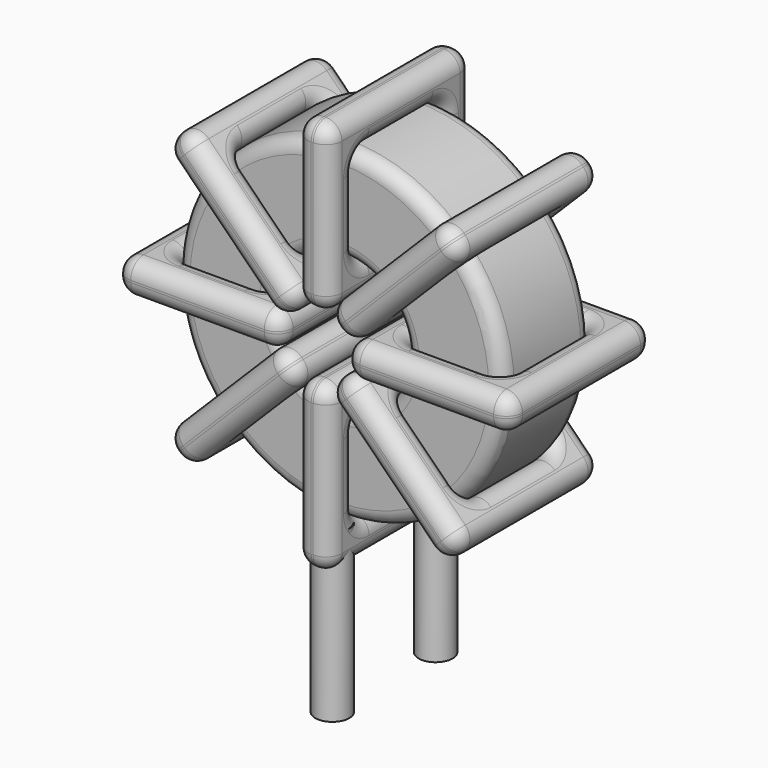
from build123d import *

# Parameters (mm, degrees)
SKETCH001_R       = 0.6
PAD001_DEPTH      = 1.2
PAD001_DEPTH_BACK = 4.7
SKETCH_R          = 5.785
SKETCH_R_2        = 2.328333
PAD_DEPTH         = 1.975
FILLET_R          = 0.5
SKETCH003_W       = 5.856667
SKETCH003_H       = 6.35
SKETCH003_W_2     = 3.456667
SKETCH003_H_2     = 3.95
PAD002_DEPTH      = 0.6
FILLET001_R       = 0.564
SKETCH004_W       = 5.856667
SKETCH004_H       = 6.35
SKETCH004_W_2     = 3.456667
SKETCH004_H_2     = 3.95
PAD003_DEPTH      = 0.6
FILLET002_R       = 0.564
SKETCH005_W       = 5.856667
SKETCH005_H       = 6.35
SKETCH005_W_2     = 3.456667
SKETCH005_H_2     = 3.95
PAD004_DEPTH      = 0.6
FILLET003_R       = 0.564
SKETCH006_W       = 5.856667
SKETCH006_H       = 6.35
SKETCH006_W_2     = 3.456667
SKETCH006_H_2     = 3.95
PAD005_DEPTH      = 0.6
FILLET004_R       = 0.564


with BuildPart() as pad001:
    # Sketch001 → Pad001 (new body, two sides)
    with BuildSketch(Plane.XY.offset(1.7)) as pad001_sk:
        Circle(SKETCH001_R)
        with Locations((0, -4.57)):
            Circle(SKETCH001_R)
    extrude(amount=PAD001_DEPTH)
    extrude(pad001_sk.sketch, amount=-PAD001_DEPTH_BACK)


with BuildPart() as fillet_body:
    # Sketch → Pad (new body, symmetric)
    with BuildSketch(Plane.XZ.offset(2.285)):
        with Locations((0, 8.685)):
            Circle(SKETCH_R)
        with Locations((0, 8.685)):
            Circle(SKETCH_R_2, mode=Mode.SUBTRACT)
    extrude(amount=PAD_DEPTH, both=True)

    # Fillet
    fillet_edges = [fillet_body.edges().sort_by_distance(p)[0] for p in [
        (-2.328333, -4.26, 8.685),
        (-5.785, -4.26, 8.685),
        (-5.785, -0.31, 8.685),
    ]]
    fillet(fillet_edges, radius=FILLET_R)


with BuildPart() as fillet001:
    # Sketch003 → Pad002 (new body, symmetric)
    with BuildSketch(Plane(origin=(0, 0.89, 8.685), x_dir=(1, 0, 0), z_dir=(0, 0, -1))):
        with Locations((-4.056666, 3.175)):
            Rectangle(SKETCH003_W, SKETCH003_H)
        with Locations((-4.056667, 3.175)):
            Rectangle(SKETCH003_W_2, SKETCH003_H_2, mode=Mode.SUBTRACT)
        with Locations((4.056666, 3.175)):
            Rectangle(SKETCH003_W, SKETCH003_H)
        with Locations((4.056667, 3.175)):
            Rectangle(SKETCH003_W_2, SKETCH003_H_2, mode=Mode.SUBTRACT)
    extrude(amount=PAD002_DEPTH, both=True)

    # Fillet001
    fillet001_edges = [fillet001.edges().sort_by_distance(p)[0] for p in [
        (-2.328333, -4.26, 8.685),
        (-2.328333, -0.31, 8.685),
        (-2.328333, -2.285, 9.285),
        (-2.328333, -2.285, 8.085),
        (-6.985, -5.46, 8.685),
        (-1.128333, -5.46, 8.685),
        (-4.056667, -5.46, 9.285),
        (-4.056667, -5.46, 8.085),
        (-1.128333, 0.89, 8.685),
        (-1.128333, -2.285, 9.285),
        (-1.128333, -2.285, 8.085),
        (2.328333, -4.26, 8.685),
        (5.785, -4.26, 8.685),
        (4.056667, -4.26, 9.285),
        (4.056667, -4.26, 8.085),
        (5.785, -0.31, 8.685),
        (5.785, -2.285, 9.285),
        (5.785, -2.285, 8.085),
        (1.128333, -5.46, 8.685),
        (6.985, -5.46, 8.685),
        (4.056667, -5.46, 9.285),
        (4.056667, -5.46, 8.085),
        (6.985, 0.89, 8.685),
        (6.985, -2.285, 9.285),
        (6.985, -2.285, 8.085),
        (-5.785, -4.26, 8.685),
        (-4.056667, -4.26, 9.285),
        (-4.056667, -4.26, 8.085),
        (2.328333, -0.31, 8.685),
        (2.328333, -2.285, 9.285),
        (2.328333, -2.285, 8.085),
        (4.056667, -0.31, 9.285),
        (4.056667, -0.31, 8.085),
        (1.128333, 0.89, 8.685),
        (4.056667, 0.89, 9.285),
        (4.056667, 0.89, 8.085),
        (1.128333, -2.285, 9.285),
        (1.128333, -2.285, 8.085),
        (-6.985, 0.89, 8.685),
        (-4.056667, 0.89, 9.285),
        (-4.056667, 0.89, 8.085),
        (-6.985, -2.285, 9.285),
        (-6.985, -2.285, 8.085),
        (-5.785, -0.31, 8.685),
        (-5.785, -2.285, 9.285),
        (-5.785, -2.285, 8.085),
        (-4.056667, -0.31, 9.285),
        (-4.056667, -0.31, 8.085),
    ]]
    fillet(fillet001_edges, radius=FILLET001_R)


with BuildPart() as fillet002:
    # Sketch004 → Pad003 (new body, symmetric)
    with BuildSketch(Plane(origin=(0, 0.89, 8.685), x_dir=(0.707108, 0, 0.707106), z_dir=(0.707106, 0, -0.707108))):
        with Locations((-4.056666, 3.175)):
            Rectangle(SKETCH004_W, SKETCH004_H)
        with Locations((-4.056667, 3.175)):
            Rectangle(SKETCH004_W_2, SKETCH004_H_2, mode=Mode.SUBTRACT)
        with Locations((4.056666, 3.175)):
            Rectangle(SKETCH004_W, SKETCH004_H)
        with Locations((4.056667, 3.175)):
            Rectangle(SKETCH004_W_2, SKETCH004_H_2, mode=Mode.SUBTRACT)
    extrude(amount=PAD003_DEPTH, both=True)

    # Fillet002
    fillet002_edges = [fillet002.edges().sort_by_distance(p)[0] for p in [
        (-1.646382, -4.26, 7.038622),
        (-1.646382, -0.31, 7.038622),
        (-2.070646, -2.285, 7.462886),
        (-1.222119, -2.285, 6.614357),
        (-4.939147, -5.46, 3.745865),
        (-0.797853, -5.46, 7.887149),
        (-3.292763, -5.46, 6.240771),
        (-2.444236, -5.46, 5.392242),
        (-0.797853, 0.89, 7.887149),
        (-1.222117, -2.285, 8.311413),
        (-0.373589, -2.285, 7.462884),
        (1.646382, -4.26, 10.331378),
        (4.090617, -4.26, 12.775608),
        (2.444236, -4.26, 11.977758),
        (3.292763, -4.26, 11.129229),
        (4.090617, -0.31, 12.775608),
        (3.666354, -2.285, 13.199873),
        (4.514881, -2.285, 12.351343),
        (0.797853, -5.46, 9.482851),
        (4.939147, -5.46, 13.624135),
        (2.444236, -5.46, 11.977758),
        (3.292763, -5.46, 11.129229),
        (4.939147, 0.89, 13.624135),
        (4.514883, -2.285, 14.0484),
        (5.36341, -2.285, 13.199871),
        (-4.090617, -4.26, 4.594392),
        (-3.292763, -4.26, 6.240771),
        (-2.444236, -4.26, 5.392242),
        (1.646382, -0.31, 10.331378),
        (1.222119, -2.285, 10.755643),
        (2.070646, -2.285, 9.907114),
        (2.444236, -0.31, 11.977758),
        (3.292763, -0.31, 11.129229),
        (0.797853, 0.89, 9.482851),
        (2.444236, 0.89, 11.977758),
        (3.292763, 0.89, 11.129229),
        (0.373589, -2.285, 9.907116),
        (1.222117, -2.285, 9.058587),
        (-4.939147, 0.89, 3.745865),
        (-3.292763, 0.89, 6.240771),
        (-2.444236, 0.89, 5.392242),
        (-5.36341, -2.285, 4.170129),
        (-4.514883, -2.285, 3.3216),
        (-4.090617, -0.31, 4.594392),
        (-4.514881, -2.285, 5.018657),
        (-3.666354, -2.285, 4.170127),
        (-3.292763, -0.31, 6.240771),
        (-2.444236, -0.31, 5.392242),
    ]]
    fillet(fillet002_edges, radius=FILLET002_R)


with BuildPart() as fillet003:
    # Sketch005 → Pad004 (new body, symmetric)
    with BuildSketch(Plane(origin=(0, 0.89, 8.685), x_dir=(0.707108, 0, -0.707106), z_dir=(-0.707106, 0, -0.707108))):
        with Locations((-4.056666, 3.175)):
            Rectangle(SKETCH005_W, SKETCH005_H)
        with Locations((-4.056667, 3.175)):
            Rectangle(SKETCH005_W_2, SKETCH005_H_2, mode=Mode.SUBTRACT)
        with Locations((4.056666, 3.175)):
            Rectangle(SKETCH005_W, SKETCH005_H)
        with Locations((4.056667, 3.175)):
            Rectangle(SKETCH005_W_2, SKETCH005_H_2, mode=Mode.SUBTRACT)
    extrude(amount=PAD004_DEPTH, both=True)

    # Fillet003
    fillet003_edges = [fillet003.edges().sort_by_distance(p)[0] for p in [
        (-1.646382, -4.26, 10.331378),
        (-1.646382, -0.31, 10.331378),
        (-1.222119, -2.285, 10.755643),
        (-2.070646, -2.285, 9.907114),
        (-4.939147, -5.46, 13.624135),
        (-0.797853, -5.46, 9.482851),
        (-2.444236, -5.46, 11.977758),
        (-3.292763, -5.46, 11.129229),
        (-0.797853, 0.89, 9.482851),
        (-0.373589, -2.285, 9.907116),
        (-1.222117, -2.285, 9.058587),
        (1.646382, -4.26, 7.038622),
        (4.090617, -4.26, 4.594392),
        (3.292763, -4.26, 6.240771),
        (2.444236, -4.26, 5.392242),
        (4.090617, -0.31, 4.594392),
        (4.514881, -2.285, 5.018657),
        (3.666354, -2.285, 4.170127),
        (0.797853, -5.46, 7.887149),
        (4.939147, -5.46, 3.745865),
        (3.292763, -5.46, 6.240771),
        (2.444236, -5.46, 5.392242),
        (4.939147, 0.89, 3.745865),
        (5.36341, -2.285, 4.170129),
        (4.514883, -2.285, 3.3216),
        (-4.090617, -4.26, 12.775608),
        (-2.444236, -4.26, 11.977758),
        (-3.292763, -4.26, 11.129229),
        (1.646382, -0.31, 7.038622),
        (2.070646, -2.285, 7.462886),
        (1.222119, -2.285, 6.614357),
        (3.292763, -0.31, 6.240771),
        (2.444236, -0.31, 5.392242),
        (0.797853, 0.89, 7.887149),
        (3.292763, 0.89, 6.240771),
        (2.444236, 0.89, 5.392242),
        (1.222117, -2.285, 8.311413),
        (0.373589, -2.285, 7.462884),
        (-4.939147, 0.89, 13.624135),
        (-2.444236, 0.89, 11.977758),
        (-3.292763, 0.89, 11.129229),
        (-4.514883, -2.285, 14.0484),
        (-5.36341, -2.285, 13.199871),
        (-4.090617, -0.31, 12.775608),
        (-3.666354, -2.285, 13.199873),
        (-4.514881, -2.285, 12.351343),
        (-2.444236, -0.31, 11.977758),
        (-3.292763, -0.31, 11.129229),
    ]]
    fillet(fillet003_edges, radius=FILLET003_R)


with BuildPart() as fillet004:
    # Sketch006 → Pad005 (new body, symmetric)
    with BuildSketch(Plane(origin=(0, 0.89, 8.685), x_dir=(0, 0, 1), z_dir=(1, 0, 0))):
        with Locations((-4.056666, 3.175)):
            Rectangle(SKETCH006_W, SKETCH006_H)
        with Locations((-4.056667, 3.175)):
            Rectangle(SKETCH006_W_2, SKETCH006_H_2, mode=Mode.SUBTRACT)
        with Locations((4.056666, 3.175)):
            Rectangle(SKETCH006_W, SKETCH006_H)
        with Locations((4.056667, 3.175)):
            Rectangle(SKETCH006_W_2, SKETCH006_H_2, mode=Mode.SUBTRACT)
    extrude(amount=PAD005_DEPTH, both=True)

    # Fillet004
    fillet004_edges = [fillet004.edges().sort_by_distance(p)[0] for p in [
        (0, -4.26, 6.356667),
        (0, -0.31, 6.356667),
        (-0.6, -2.285, 6.356667),
        (0.6, -2.285, 6.356667),
        (0, -5.46, 1.7),
        (0, -5.46, 7.556667),
        (-0.6, -5.46, 4.628333),
        (0.6, -5.46, 4.628333),
        (0, 0.89, 7.556667),
        (-0.6, -2.285, 7.556667),
        (0.6, -2.285, 7.556667),
        (0, -4.26, 11.013333),
        (0, -4.26, 14.47),
        (-0.6, -4.26, 12.741667),
        (0.6, -4.26, 12.741667),
        (0, -0.31, 14.47),
        (-0.6, -2.285, 14.47),
        (0.6, -2.285, 14.47),
        (0, -5.46, 9.813333),
        (0, -5.46, 15.67),
        (-0.6, -5.46, 12.741667),
        (0.6, -5.46, 12.741667),
        (0, 0.89, 15.67),
        (-0.6, -2.285, 15.67),
        (0.6, -2.285, 15.67),
        (0, -4.26, 2.9),
        (-0.6, -4.26, 4.628333),
        (0.6, -4.26, 4.628333),
        (0, -0.31, 11.013333),
        (-0.6, -2.285, 11.013333),
        (0.6, -2.285, 11.013333),
        (-0.6, -0.31, 12.741667),
        (0.6, -0.31, 12.741667),
        (0, 0.89, 9.813333),
        (-0.6, 0.89, 12.741667),
        (0.6, 0.89, 12.741667),
        (-0.6, -2.285, 9.813333),
        (0.6, -2.285, 9.813333),
        (0, 0.89, 1.7),
        (-0.6, 0.89, 4.628333),
        (0.6, 0.89, 4.628333),
        (-0.6, -2.285, 1.7),
        (0.6, -2.285, 1.7),
        (0, -0.31, 2.9),
        (-0.6, -2.285, 2.9),
        (0.6, -2.285, 2.9),
        (-0.6, -0.31, 4.628333),
        (0.6, -0.31, 4.628333),
    ]]
    fillet(fillet004_edges, radius=FILLET004_R)


solid = Compound([pad001.part, fillet_body.part, fillet001.part, fillet002.part, fillet003.part, fillet004.part])
